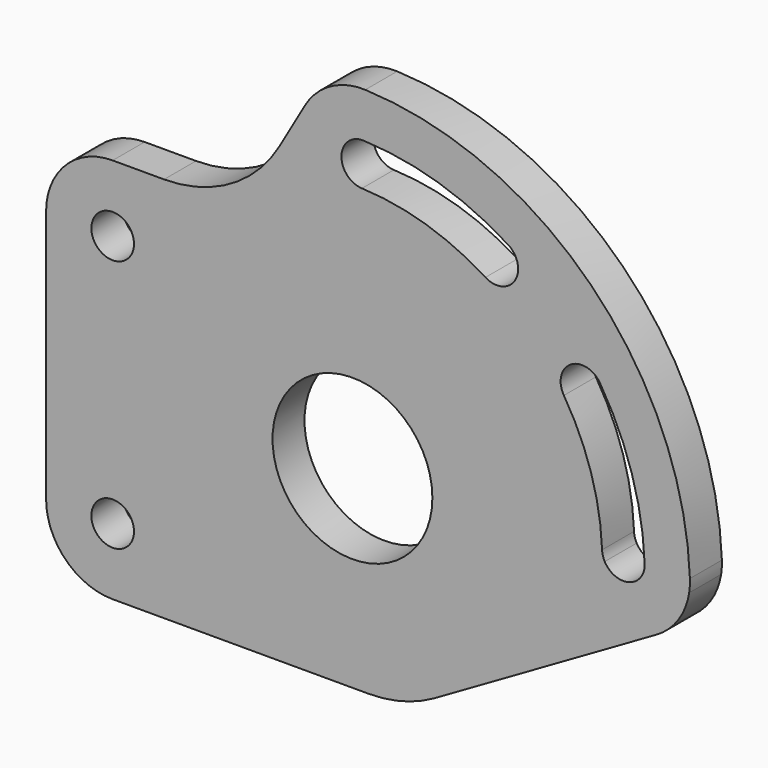
from build123d import *

# Parameters (mm, degrees)
F0_R     = 1.6
F0_R_2   = 6
F1_DEPTH = 3


with BuildPart() as f1:
    # F0 (on Front) → F1 (new body)
    with BuildSketch(Plane.XZ):
        with BuildLine():
            Line((-14.145082, 14.5), (-18, 14.5))
            ThreePointArc((-18, 14.5), (-21.535534, 13.035534), (-23, 9.5))
            Line((-23, 9.5), (-23, -9.5))
            ThreePointArc((-23, -9.5), (-21.535534, -13.035534), (-18, -14.5))
            Line((-18, -14.5), (1.205771, -14.5))
            ThreePointArc((1.205771, -14.5), (3.793962, -14.159258), (6.205771, -13.160254))
            Line((6.205771, -13.160254), (22.838457, -3.557368))
            ThreePointArc((22.838457, -3.557368), (24.461785, -2.055344), (25.278381, 0))
            ThreePointArc((25.278381, 0), (25.329875, 0.479934), (25.334852, 0.962596))
            ThreePointArc((25.334852, 0.962596), (17.927372, 17.927372), (0.962596, 25.334852))
            ThreePointArc((0.962596, 25.334852), (-1.644574, 24.715272), (-3.557368, 22.838457))
            Line((-3.557368, 22.838457), (-5.484828, 19.5))
            ThreePointArc((-5.484828, 19.5), (-9.145082, 15.839746), (-14.145082, 14.5))
        make_face()
        with Locations((-18, -9.5)):
            Circle(F0_R, mode=Mode.SUBTRACT)
        Circle(F0_R_2, mode=Mode.SUBTRACT)
        with Locations((-18, 9.5)):
            Circle(F0_R, mode=Mode.SUBTRACT)
        with BuildLine():
            ThreePointArc((21.937304, 0.833507), (21.895209, 0.403267), (21.739473, 0))
            ThreePointArc((21.739473, 0), (20.338457, -0.827241), (18.937442, 0))
            ThreePointArc((18.937442, 0), (18.796857, 0.344427), (18.739611, 0.712011))
            ThreePointArc((18.739611, 0.712011), (17.916792, 5.537918), (15.872974, 9.986425))
            ThreePointArc((15.872974, 9.986425), (16.375209, 12.192725), (18.581509, 11.69049))
            ThreePointArc((18.581509, 11.69049), (20.974081, 6.482898), (21.937304, 0.833507))
        make_face(mode=Mode.SUBTRACT)
        with BuildLine():
            ThreePointArc((0.833507, 21.937304), (6.482898, 20.974081), (11.69049, 18.581509))
            ThreePointArc((11.69049, 18.581509), (12.192725, 16.375209), (9.986425, 15.872974))
            ThreePointArc((9.986425, 15.872974), (5.537918, 17.916792), (0.712011, 18.739611))
            ThreePointArc((0.712011, 18.739611), (-0.826088, 20.399205), (0.833507, 21.937304))
        make_face(mode=Mode.SUBTRACT)
    extrude(amount=-F1_DEPTH)


solid = f1.part
